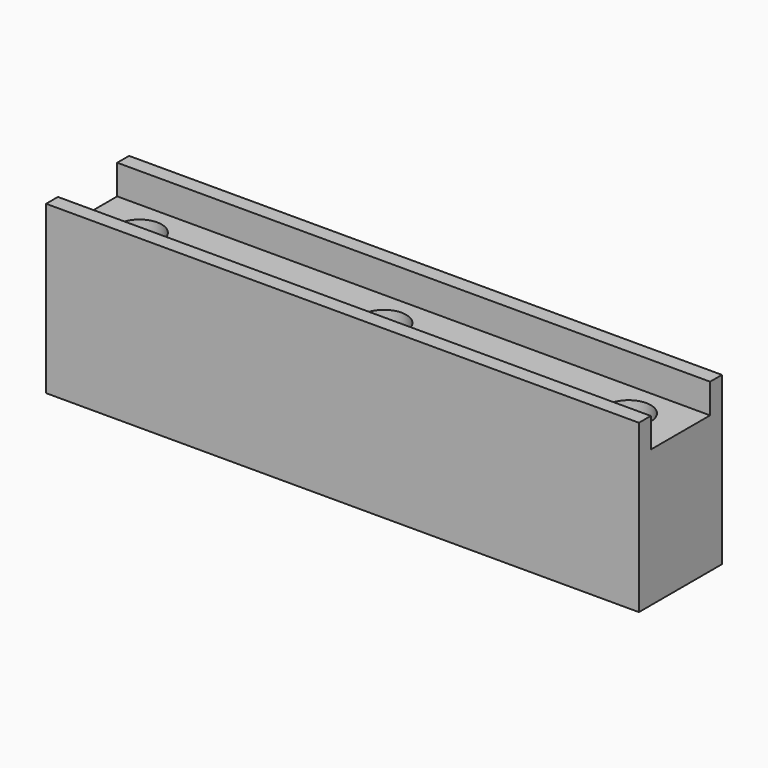
from build123d import *

# Parameters (mm, degrees)
F1_DEPTH       = 80
F1_DEPTH_BACK  = 80
F3_D           = 6
F3_DEPTH       = 38
F3_CBORE_D     = 12
F3_CBORE_DEPTH = 7


with BuildPart() as f1:
    # F0 (on Right) → F1 (new body, two sides)
    with BuildSketch(Plane.YZ) as f1_sk:
        Polygon((0, 45), (0, 0), (28, 0), (28, 45), (24, 45), (24, 37), (4, 37), (4, 45), align=None)
    extrude(amount=F1_DEPTH)
    extrude(f1_sk.sketch, amount=-F1_DEPTH_BACK)

    # F3
    with Locations(Plane.XY.offset(37)):
        with Locations((-66, 14), (0, 14), (66, 14)):
            CounterBoreHole(F3_D / 2, F3_CBORE_D / 2, F3_CBORE_DEPTH, depth=F3_DEPTH)


solid = f1.part
